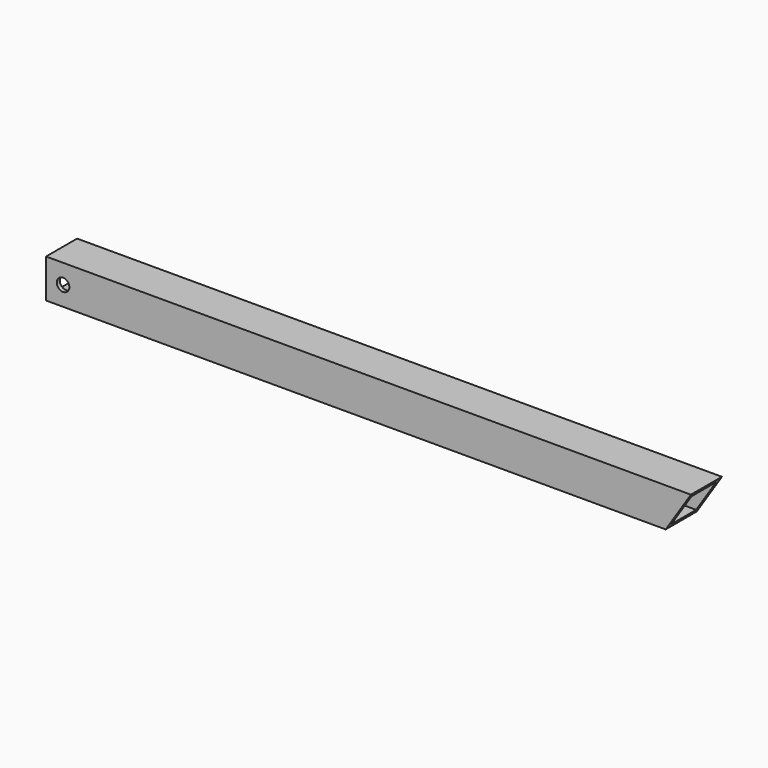
from build123d import *

# Parameters (mm, degrees)
F1_DEPTH = 80
F2_W     = 64
F2_H     = 64
F3_DEPTH = 1330
F4_D     = 26


with BuildPart() as f1:
    # F0 (on Front) → F1 (new body)
    with BuildSketch(Plane.XZ):
        Polygon((642.1647218585, 48.1479109465), (-687.8352781415, 48.1479109465), (-687.8352781415, -31.8520890535), (590.2121144027, -31.8520890535), align=None)
    extrude(amount=F1_DEPTH)

    # F2 (on face) → F3 (cut)
    with BuildSketch(Plane(origin=(-687.8352781415, 0, 0), x_dir=(0, -1, 0), z_dir=(-1, 0, 0))):
        with Locations((40, 8.1479109465)):
            Rectangle(F2_W, F2_H)
    extrude(amount=-F3_DEPTH, mode=Mode.SUBTRACT)

    # F4 (through all)
    with Locations(Plane(origin=(0, 0, 0), x_dir=(1, 0, 0), z_dir=(0, 1, 0))):
        with Locations((-652.8352781415, -8.1479109465)):
            Hole(F4_D / 2)


solid = f1.part
